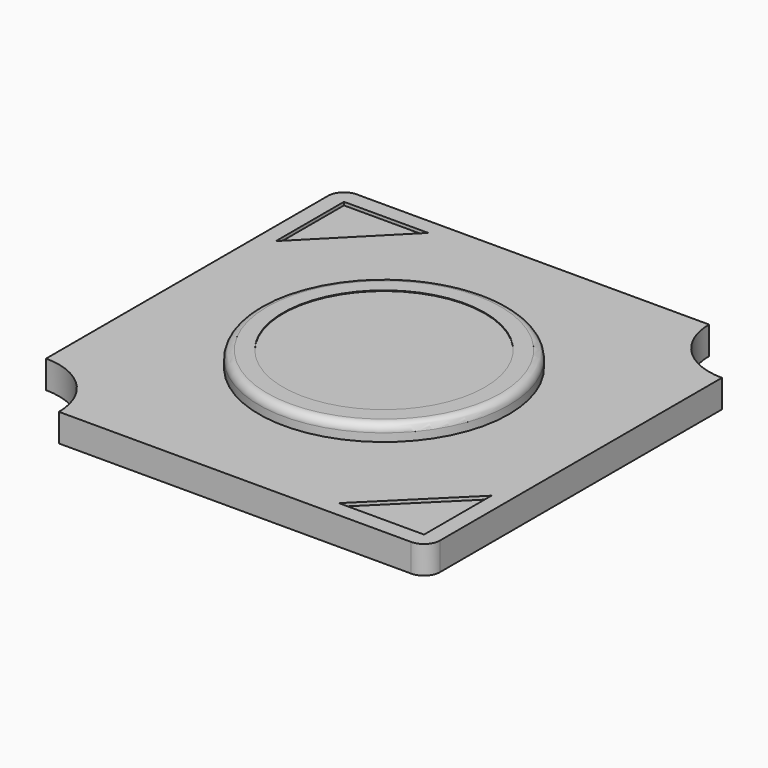
from build123d import *

# Parameters (mm, degrees)
F0_R     = 3.9
F0_R_2   = 3.15
F1_DEPTH = 0.87
F2_DEPTH = 0.77
F3_DEPTH = 1.37
F4_DEPTH = 1.35
F5_R     = 0.25


with BuildPart() as f1:
    # F0 (on Top) → F1 (new body)
    with BuildSketch(Plane.XY):
        with BuildLine():
            Line((-4.75, -6.75), (6.25, -6.75))
            ThreePointArc((6.25, -6.75), (6.603553, -6.603553), (6.75, -6.25))
            Line((6.75, -6.25), (6.75, 4.75))
            ThreePointArc((6.75, 4.75), (5.335786, 5.335786), (4.75, 6.75))
            Line((4.75, 6.75), (-6.25, 6.75))
            ThreePointArc((-6.25, 6.75), (-6.603553, 6.603553), (-6.75, 6.25))
            Line((-6.75, 6.25), (-6.75, -4.75))
            ThreePointArc((-6.75, -4.75), (-5.335786, -5.335786), (-4.75, -6.75))
        make_face()
        Polygon((6.25, -6.25), (3.592141, -6.25), (6.25, -3.619419), align=None, mode=Mode.SUBTRACT)
        Polygon((-6.25, 3.592141), (-6.25, 6.25), (-3.619419, 6.25), align=None, mode=Mode.SUBTRACT)
        Circle(F0_R, mode=Mode.SUBTRACT)
        Circle(F0_R)
        Circle(F0_R_2, mode=Mode.SUBTRACT)
        Circle(F0_R_2)
    extrude(amount=F1_DEPTH)

    # F0 (on Top) → F2 (join)
    with BuildSketch(Plane.XY):
        Polygon((-3.619419, 6.25), (-6.25, 6.25), (-6.25, 3.592141), align=None)
        Polygon((6.25, -3.619419), (3.592141, -6.25), (6.25, -6.25), align=None)
    extrude(amount=F2_DEPTH)

    # F0 (on Top) → F3 (join)
    with BuildSketch(Plane.XY):
        Circle(F0_R)
        Circle(F0_R_2, mode=Mode.SUBTRACT)
    extrude(amount=F3_DEPTH)

    # F0 (on Top) → F4 (join)
    with BuildSketch(Plane.XY):
        Circle(F0_R_2)
    extrude(amount=F4_DEPTH)

    # F5
    f5_edges = [f1.edges().sort_by_distance(p)[0] for p in [
        (-3.9, 0, 1.37),
    ]]
    fillet(f5_edges, radius=F5_R)


solid = f1.part
